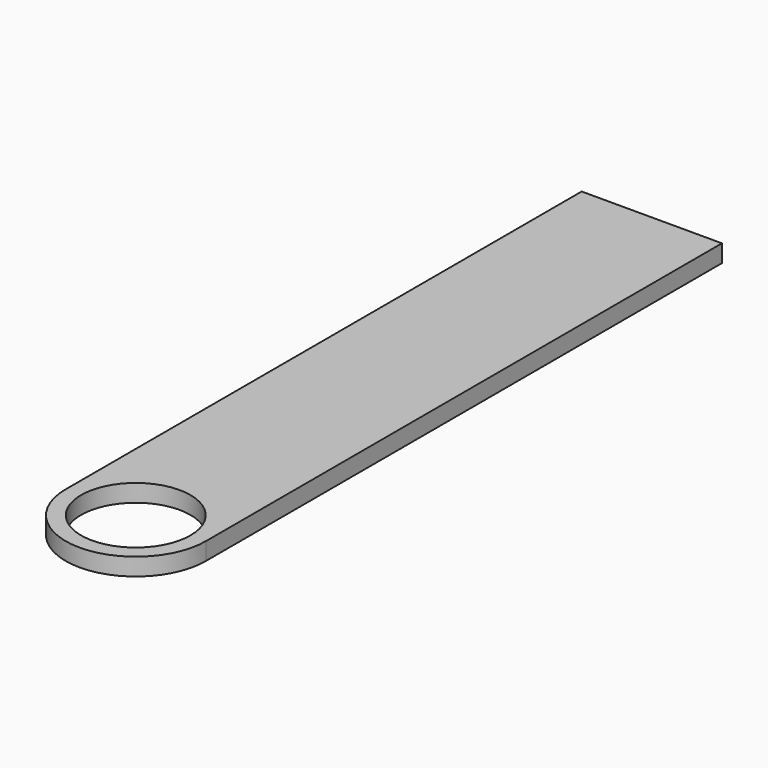
from build123d import *

# Parameters (mm, degrees)
SKETCH_R  = 2.5
PAD_DEPTH = 0.8


with BuildPart() as part:
    # Sketch → Pad (new body)
    with BuildSketch(Plane.XY):
        with BuildLine():
            ThreePointArc((-3.20733, 0), (0, -3.20733), (3.20733, 0))
            Line((3.20733, 0), (3.20733, 29.5))
            Line((-3.20733, 29.5), (3.20733, 29.5))
            Line((-3.20733, 0), (-3.20733, 29.5))
        make_face()
        Circle(SKETCH_R, mode=Mode.SUBTRACT)
    extrude(amount=PAD_DEPTH)


solid = part.part
